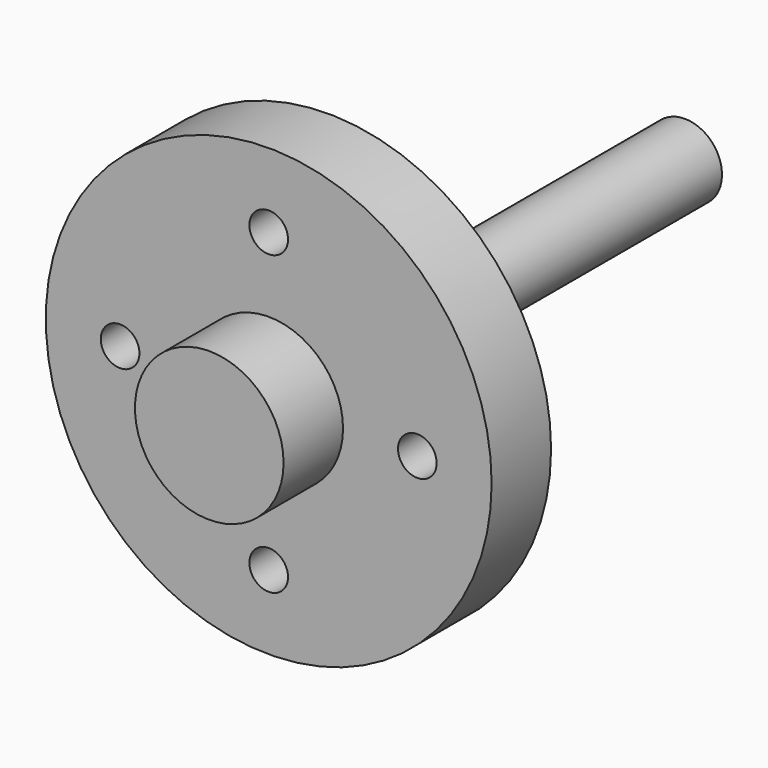
from build123d import *

# Parameters (mm, degrees)
F0_R     = 30
F1_DEPTH = 10
F2_R     = 2.6
F3_DEPTH = 25
F4_R     = 10
F5_DEPTH = 10
F6_R     = 5
F7_DEPTH = 60


with BuildPart() as f1:
    # F0 (on Front) → F1 (new body)
    with BuildSketch(Plane.XZ):
        Circle(F0_R)
    extrude(amount=F1_DEPTH)

    # F2 (on face) → F3 (cut)
    with BuildSketch(Plane.XZ.offset(10)):
        with Locations((-20, 0)):
            Circle(F2_R)
        with Locations((0, 20)):
            Circle(F2_R)
        with Locations((20, 0)):
            Circle(F2_R)
        with Locations((0, -20)):
            Circle(F2_R)
    extrude(amount=-F3_DEPTH, mode=Mode.SUBTRACT)

    # F4 (on face) → F5 (join)
    with BuildSketch(Plane.XZ.offset(10)):
        Circle(F4_R)
    extrude(amount=F5_DEPTH)

    # F6 (on face) → F7 (join)
    with BuildSketch(Plane(origin=(0, 0, 0), x_dir=(-1, 0, 0), z_dir=(0, 1, 0))):
        Circle(F6_R)
    extrude(amount=F7_DEPTH)


solid = f1.part
